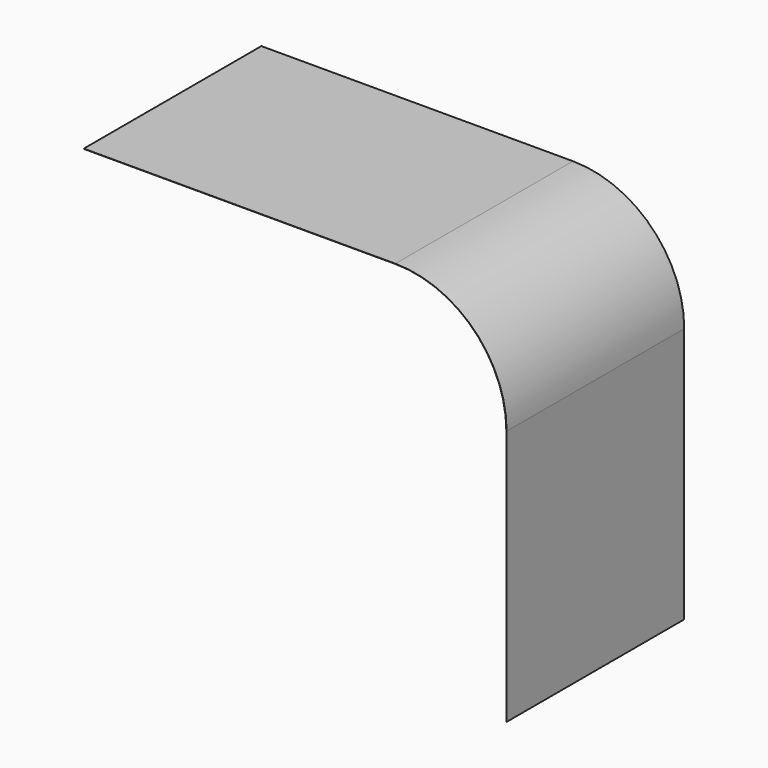
from build123d import *

# Parameters (mm, degrees)
F1_DEPTH = 997.5


with BuildPart() as f1:
    # F0 (on Front) → F1 (new body)
    with BuildSketch(Plane.XZ):
        Polygon((-1648.75, 1648.75), (-950, 1648.75), (-950, 1650), (-1650, 1650), align=None)
        with BuildLine():
            Line((248.75, 1150), (248.75, 0))
            Line((248.75, 0), (250, 0))
            Line((250, 0), (250, 1150))
            ThreePointArc((250, 1150), (103.553391, 1503.553391), (-250, 1650))
            Line((-250, 1650), (-950, 1650))
            Line((-950, 1650), (-950, 1648.75))
            Line((-950, 1648.75), (-250, 1648.75))
            ThreePointArc((-250, 1648.75), (102.669507, 1502.669507), (248.75, 1150))
        make_face()
    extrude(amount=F1_DEPTH)


solid = f1.part
